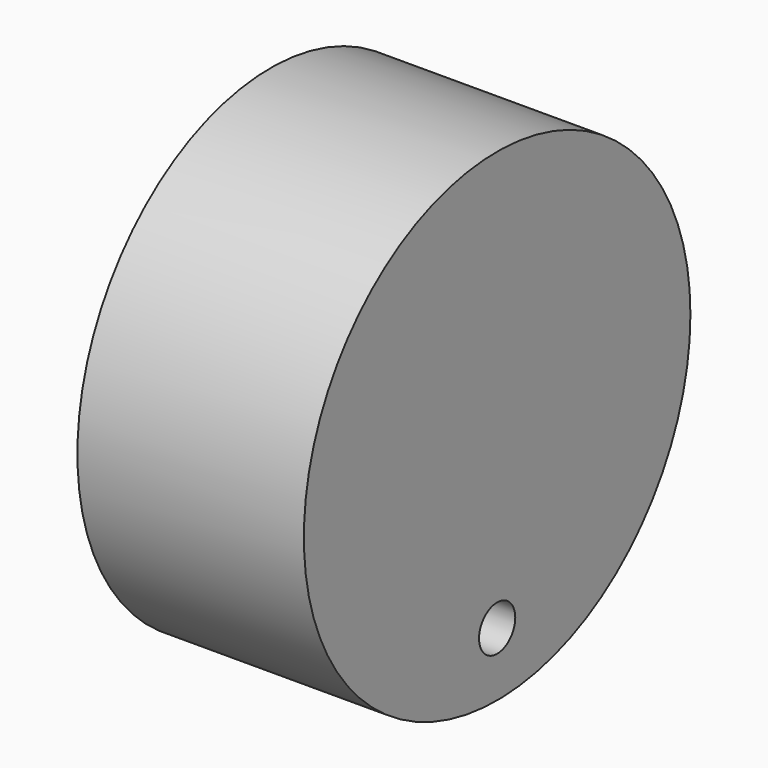
from build123d import *

# Parameters (mm, degrees)
F0_R     = 40.64
F0_R_2   = 3.81
F1_DEPTH = 38.1
F2_T     = -2.54


with BuildPart() as f1:
    # F0 (on Right) → F1 (new body)
    with BuildSketch(Plane.YZ):
        Circle(F0_R)
        with Locations((0, -29.927611)):
            Circle(F0_R_2, mode=Mode.SUBTRACT)
    extrude(amount=F1_DEPTH)

    # F2
    f2_openings = [f1.faces().sort_by_distance(p)[0] for p in [
        (0, 0, 0.265368),
    ]]
    offset(amount=F2_T, openings=f2_openings)


solid = f1.part
